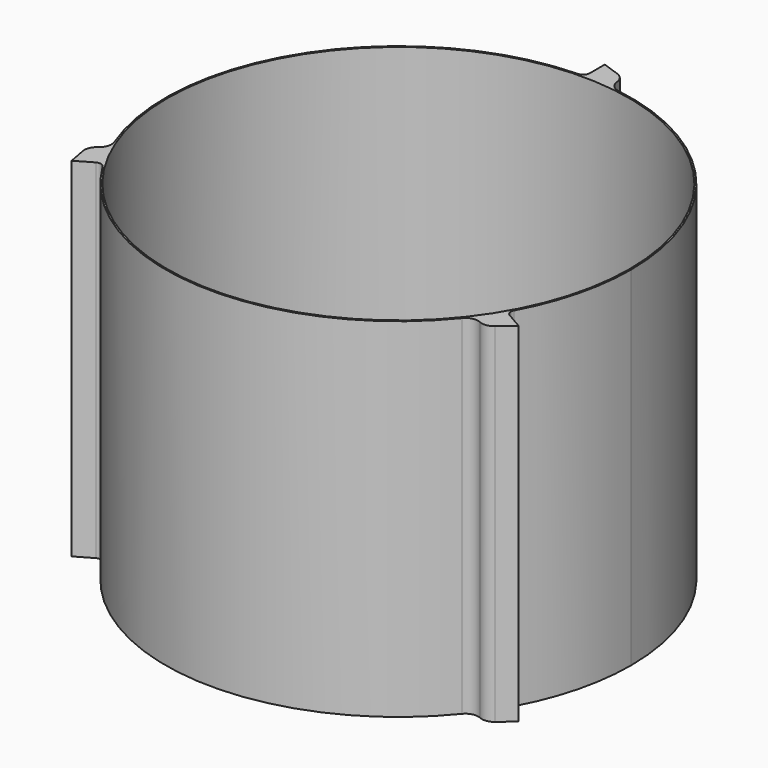
from build123d import *

# Parameters (mm, degrees)
F0_R     = 36.5
F1_DEPTH = 55
F2_R     = 2
F3_R     = 2
F4_R     = 1
F5_R     = 2
F6_R     = 2
F7_R     = 1
F8_R     = 1
F9_R     = 2
F10_R    = 2


with BuildPart() as f1:
    # F0 (on Top) → F1 (new body)
    with BuildSketch(Plane.XY):
        with BuildLine():
            ThreePointArc((31.826434, -18.375), (35.497774, -9.5116), (36.75, 0))
            ThreePointArc((36.75, 0), (27.38989, 24.502172), (4.077541, 36.523091))
            ThreePointArc((4.077541, 36.523091), (2.041925, 36.693229), (0, 36.75))
            ThreePointArc((0, 36.75), (-30.756306, 20.114973), (-33.668695, -14.730292))
            ThreePointArc((-33.668695, -14.730292), (-32.798231, -16.578256), (-31.826434, -18.375))
            ThreePointArc((-31.826434, -18.375), (-2.041925, -36.693229), (29.591154, -21.792799))
            ThreePointArc((29.591154, -21.792799), (30.756306, -20.114973), (31.826434, -18.375))
        make_face()
        Circle(F0_R, mode=Mode.SUBTRACT)
        with BuildLine():
            ThreePointArc((0, 36.75), (2.041925, 36.693229), (4.077541, 36.523091))
            Line((4.077541, 36.523091), (4.077541, 39.312689))
            Line((4.077541, 39.312689), (0, 40.75))
            Line((0, 40.75), (0, 36.75))
        make_face()
        with BuildLine():
            ThreePointArc((-31.826434, -18.375), (-32.798231, -16.578256), (-33.668695, -14.730292))
            Line((-33.668695, -14.730292), (-36.084558, -16.125091))
            Line((-36.084558, -16.125091), (-35.290535, -20.375))
            Line((-35.290535, -20.375), (-31.826434, -18.375))
        make_face()
        with BuildLine():
            Line((35.290535, -20.375), (31.826434, -18.375))
            ThreePointArc((31.826434, -18.375), (30.756306, -20.114973), (29.591154, -21.792799))
            Line((29.591154, -21.792799), (32.007017, -23.187598))
            Line((32.007017, -23.187598), (35.290535, -20.375))
        make_face()
    extrude(amount=F1_DEPTH)

    # F2
    f2_edges = [f1.edges().sort_by_distance(p)[0] for p in [
        (4.077541, 39.312689, 27.5),
    ]]
    fillet(f2_edges, radius=F2_R)

    # F3
    f3_edges = [f1.edges().sort_by_distance(p)[0] for p in [
        (4.077541, 36.523091, 27.5),
    ]]
    fillet(f3_edges, radius=F3_R)

    # F4
    f4_edges = [f1.edges().sort_by_distance(p)[0] for p in [
        (0, 36.75, 27.5),
    ]]
    fillet(f4_edges, radius=F4_R)

    # F5
    f5_edges = [f1.edges().sort_by_distance(p)[0] for p in [
        (32.007017, -23.187598, 27.5),
    ]]
    fillet(f5_edges, radius=F5_R)

    # F6
    f6_edges = [f1.edges().sort_by_distance(p)[0] for p in [
        (29.591154, -21.792799, 27.5),
    ]]
    fillet(f6_edges, radius=F6_R)

    # F7
    f7_edges = [f1.edges().sort_by_distance(p)[0] for p in [
        (31.826434, -18.375, 27.5),
    ]]
    fillet(f7_edges, radius=F7_R)

    # F8
    f8_edges = [f1.edges().sort_by_distance(p)[0] for p in [
        (-31.826434, -18.375, 27.5),
    ]]
    fillet(f8_edges, radius=F8_R)

    # F9
    f9_edges = [f1.edges().sort_by_distance(p)[0] for p in [
        (-36.084558, -16.125091, 27.5),
    ]]
    fillet(f9_edges, radius=F9_R)

    # F10
    f10_edges = [f1.edges().sort_by_distance(p)[0] for p in [
        (-33.668695, -14.730292, 27.5),
    ]]
    fillet(f10_edges, radius=F10_R)


solid = f1.part
